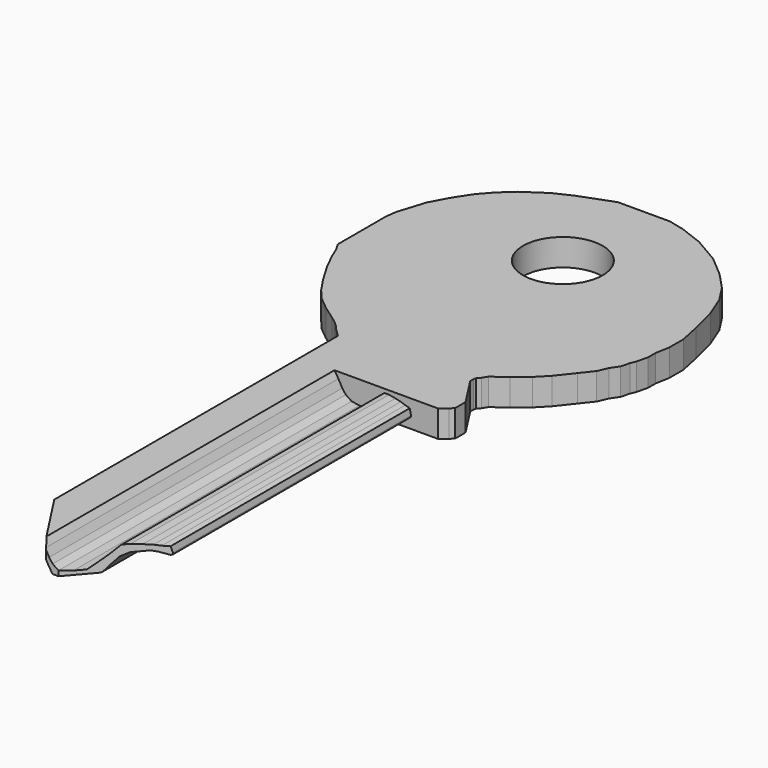
from build123d import *

# Parameters (mm, degrees)
F0_R     = 2.9695482625
F1_DEPTH = 1
F4_DEPTH = 27.3


with BuildPart() as f1:
    # F0 (on Top) → F1 (new body, symmetric)
    with BuildSketch(Plane.XY):
        Polygon((12.3607597711, -55.2147076325), (16.7780640493, -50.0796457731), (16.7780640493, -27.9147076325), (18.8081849192, -27.9147076325), (19.2885116058, -27.4970311455), (19.5391171796, -27.2673100327), (19.5391171796, -26.9958199979), (19.5391171796, -26.7243331464), (19.5391171796, -26.2857721985), (18.0981371197, -24.0512096784), (18.0981371197, -23.7379539049), (18.1399044501, -23.5500001224), (18.3487426936, -23.3202774179), (18.5784638064, -22.9443698531), (19.601768971, -22.2134375926), (20.6041896746, -21.3780878021), (21.3977721348, -20.5636208809), (22.3375426387, -19.3732463948), (23.0475904382, -18.475244813), (23.3817306727, -17.7234280915), (23.7785211069, -17.1386838748), (23.94559202, -16.4704034057), (24.1126613415, -16.0736113798), (24.3107286721, -15.2382599976), (24.3107286721, -14.5422572011), (24.4967819861, -13.5003595977), (24.4967819861, -12.1979863997), (24.1618857025, -10.5979288543), (23.6781480411, -8.6629758211), (23.0083570657, -6.9884967909), (22.1897215291, -5.723335529), (20.9989809561, -4.4581734713), (19.5105560358, -3.1930120105), (17.5383918623, -2.0394821799), (15.7894929391, -1.3696908066), (14.5987523661, -1.0832198235), (10.7237476301, -1.0832198235), (9.7613685895, -1.4441120924), (8.2729436691, -2.0022716365), (6.9333601266, -2.6348524664), (5.3333029791, -3.7139610111), (4.3658260647, -4.6070164409), (3.5844024642, -5.5000718706), (2.8029794606, -6.6908124435), (2.0587666025, -8.0676063305), (1.7238711148, -9.1467142784), (1.4261855736, -10.0769800525), (1.3145539433, -10.8956139975), (1.3145539433, -11.6398272535), (1.3145539433, -15.3981014905), (1.6272404915, -15.9329066809), (2.0135845171, -16.8460833601), (2.6106608878, -18.0402364995), (3.4887149126, -19.5153676908), (4.1560359953, -20.498788485), (4.7882354184, -21.2714753424), (5.7716558147, -22.079285849), (6.8604427815, -22.851974298), (7.2781184726, -23.1652316632), (7.6540260375, -23.4993718978), (7.9046308155, -23.7917448019), (8.1761200545, -24.0632332451), (8.5280640493, -24.418256349), (8.5280640493, -24.8359328359), (8.5280640493, -25.2878464051), (8.5280640493, -50.8238519687), (11.0211762286, -54.6565492822), (11.4304932011, -55.2147076325), (11.8025998291, -55.2147076325), align=None)
        with Locations((12.8210000694, -8.8269943371)):
            Circle(F0_R, mode=Mode.SUBTRACT)
    extrude(amount=F1_DEPTH, both=True)

    # F3 (on offset) → F4 (cut)
    with BuildSketch(Plane.XZ.offset(55.2147076325)):
        Polygon((17.2618441284, 1.6106185503), (7.4076484889, 1.6106185503), (7.2416369803, -2.3955139332), (17.2618441284, -2.3955139332), align=None)
        Polygon((8.4565682159, -1), (8.5280640493, 1), (11.0793640826, 1), (11.3692851097, 0.5361280251), (11.6591977943, 0.0142720533), (11.9201283872, -0.3336319279), (12.3550099279, -0.623552955), (12.9348519822, -0.7105284289), (13.4567048255, -0.7105284289), (13.804606721, -0.3626244477), (14.1235181824, -0.0437119435), (14.4134392095, 0.2751995178), (14.6743698024, 0.594112022), (14.7975728908, 0.7176237855), (15.1462589881, 0.7176237855), (15.6111821269, 0.6272226434), (16.0244438949, 0.5368215013), (16.3473055636, 0.4205907166), (16.6830815322, 0.3301895745), (16.7993144025, -0.2122183209), (16.6828928362, -0.237166359), (16.4764527338, -0.1089018361), (16.2181625646, 0.0460718483), (15.9082151958, 0.1752158901), (15.5853535271, 0.1752158901), (15.1333446882, 0.1752158901), (14.9267158898, 0.0719004481), (14.7071727916, -0.0443292938), (14.5651071501, -0.2509612206), (14.3713926517, -0.509250347), (14.2164210529, -0.7546251735), (14.0485268117, -0.9612571003), (13.9193838127, -1.0516582424), (11.9434709008, -1.0516582424), (11.6076991035, -0.5350799896), (11.2590046637, 0.084814748), (10.8586530244, 0.2914466748), (10.5616241267, 0.4593346591), (10.2258439869, 0.4593346591), (9.9029864894, 0.4593346591), (9.6705290913, 0.3301895745), (9.386406151, 0.1752158901), (9.1539487529, -0.0055863941), (9.1539487529, -0.2251326208), (8.9989771541, -0.5609085894), (8.8439972128, -0.7804548161), (8.8439972128, -0.9870857001), (8.6373684144, -1), align=None, mode=Mode.SUBTRACT)
    extrude(amount=-F4_DEPTH, mode=Mode.SUBTRACT)


solid = f1.part
